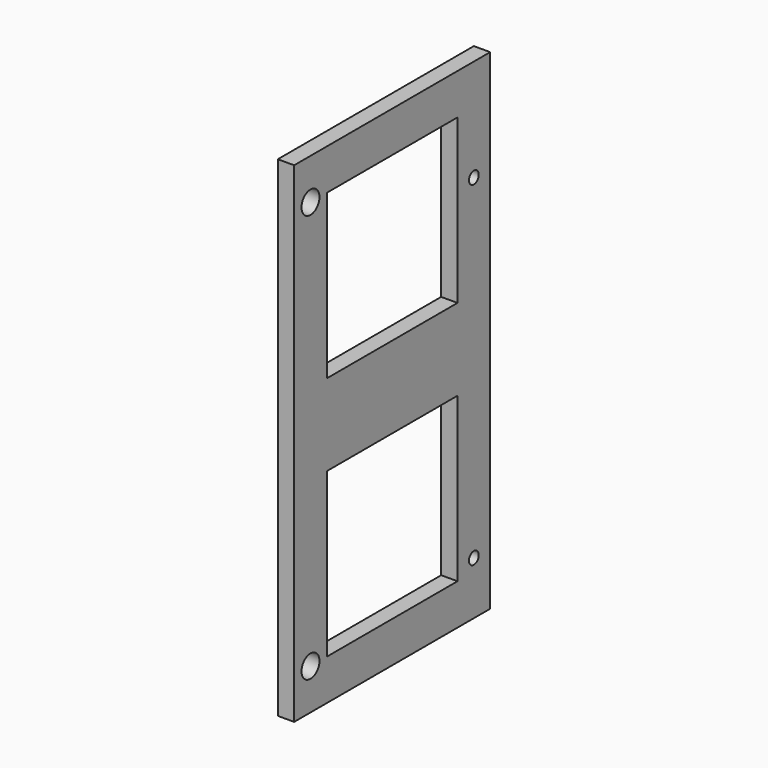
from build123d import *

# Parameters (mm, degrees)
CYLINDER002_R           = 1.5
CYLINDER002_DEPTH       = 4
CYLINDER002_PITCH_ANGLE = 90
CYLINDER003_R           = 1.5
CYLINDER003_DEPTH       = 4
CYLINDER003_PITCH_ANGLE = 90
CYLINDER_R              = 2.75
CYLINDER_DEPTH          = 4
CYLINDER_PITCH_ANGLE    = 90
CYLINDER001_R           = 2.75
CYLINDER001_DEPTH       = 4
CYLINDER001_PITCH_ANGLE = 90
BOX002_W                = 4
BOX002_H                = 40
BOX002_DEPTH            = 40
BOX001_W                = 4
BOX001_H                = 40
BOX001_DEPTH            = 40
BOX_W                   = 4
BOX_H                   = 60
BOX_DEPTH               = 120


with BuildPart() as cilindro002:
    # Cylinder002 → Cylinder002 (new body)
    with BuildSketch(Plane.XY):
        Circle(CYLINDER002_R)
    extrude(amount=CYLINDER002_DEPTH)


with BuildPart() as cilindro002_1:
    # Cylinder002 pitch: moved
    add(cilindro002.part.rotate(Axis((0, 0, 0), (0, 1, 0)), CYLINDER002_PITCH_ANGLE))


with BuildPart() as cilindro002_2:
    # Cylinder002 placement: moved
    add(cilindro002_1.part.moved(Location((0, 55, 95))))


with BuildPart() as cilindro003:
    # Cylinder003 → Cylinder003 (new body)
    with BuildSketch(Plane.XY):
        Circle(CYLINDER003_R)
    extrude(amount=CYLINDER003_DEPTH)


with BuildPart() as cilindro003_1:
    # Cylinder003 pitch: moved
    add(cilindro003.part.rotate(Axis((0, 0, 0), (0, 1, 0)), CYLINDER003_PITCH_ANGLE))


with BuildPart() as cilindro003_2:
    # Cylinder003 placement: moved
    add(cilindro003_1.part.moved(Location((0, 55, 13))))


with BuildPart() as cilindro:
    # Cylinder → Cylinder (new body)
    with BuildSketch(Plane.XY):
        Circle(CYLINDER_R)
    extrude(amount=CYLINDER_DEPTH)


with BuildPart() as cilindro_1:
    # Cylinder pitch: moved
    add(cilindro.part.rotate(Axis((0, 0, 0), (0, 1, 0)), CYLINDER_PITCH_ANGLE))


with BuildPart() as cilindro_2:
    # Cylinder placement: moved
    add(cilindro_1.part.moved(Location((0, 5, 10))))


with BuildPart() as cilindro001:
    # Cylinder001 → Cylinder001 (new body)
    with BuildSketch(Plane.XY):
        Circle(CYLINDER001_R)
    extrude(amount=CYLINDER001_DEPTH)


with BuildPart() as cilindro001_1:
    # Cylinder001 pitch: moved
    add(cilindro001.part.rotate(Axis((0, 0, 0), (0, 1, 0)), CYLINDER001_PITCH_ANGLE))


with BuildPart() as cilindro001_2:
    # Cylinder001 placement: moved
    add(cilindro001_1.part.moved(Location((0, 5, 110))))


with BuildPart() as cubo002:
    # Box002 → Box002 (new body)
    with BuildSketch(Plane(origin=(0, 10, 70), x_dir=(1, 0, 0), z_dir=(0, 0, 1))):
        with Locations((2, 20)):
            Rectangle(BOX002_W, BOX002_H)
    extrude(amount=BOX002_DEPTH)


with BuildPart() as fusion001:
    # Box001 → Box001 (new body)
    with BuildSketch(Plane(origin=(0, 10, 10), x_dir=(1, 0, 0), z_dir=(0, 0, 1))):
        with Locations((2, 20)):
            Rectangle(BOX001_W, BOX001_H)
    extrude(amount=BOX001_DEPTH)

    # Fusion: union Cubo002
    add(cubo002.part)

    # Fusion001: union Cilindro002, Cilindro003, Cilindro, Cilindro001
    add(cilindro002_2.part)
    add(cilindro003_2.part)
    add(cilindro_2.part)
    add(cilindro001_2.part)


with BuildPart() as cut:
    # Box → Box (new body)
    with BuildSketch(Plane.XY):
        with Locations((2, 30)):
            Rectangle(BOX_W, BOX_H)
    extrude(amount=BOX_DEPTH)

    # Cut: cut Fusion001
    add(fusion001.part, mode=Mode.SUBTRACT)


solid = cut.part
